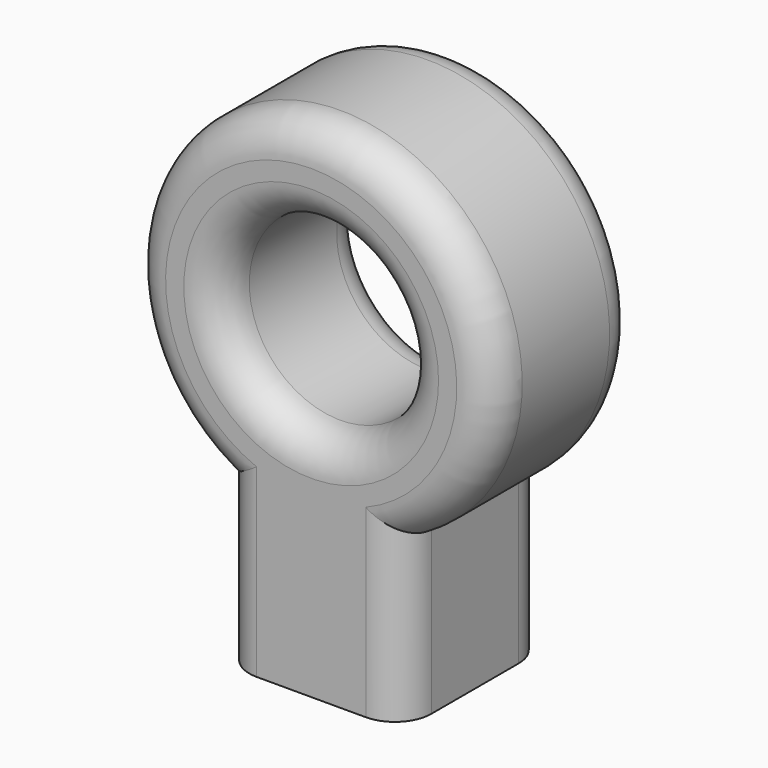
from build123d import *

# Parameters (mm, degrees)
F0_R     = 1.27
F1_DEPTH = 2.54
F2_R     = 0.508


with BuildPart() as f1:
    # F0 (on Front) → F1 (new body)
    with BuildSketch(Plane.XZ):
        with BuildLine():
            Line((1.27, -4.465058), (1.27, -2.199705))
            ThreePointArc((1.27, -2.199705), (0, 2.54), (-1.27, -2.199705))
            Line((-1.27, -2.199705), (-1.27, -4.465058))
            Line((-1.27, -4.465058), (1.27, -4.465058))
        make_face()
        Circle(F0_R, mode=Mode.SUBTRACT)
    extrude(amount=F1_DEPTH)

    # F2
    f2_edges = [f1.edges().sort_by_distance(p)[0] for p in [
        (-1.27, -2.54, 0),
        (0, -2.54, 2.54),
        (-1.27, -2.54, -3.332381),
        (1.27, -2.54, -3.332381),
        (-1.27, 0, 0),
        (0, 0, 2.54),
        (-1.27, 0, -3.332381),
        (1.27, 0, -3.332381),
    ]]
    fillet(f2_edges, radius=F2_R)


solid = f1.part
